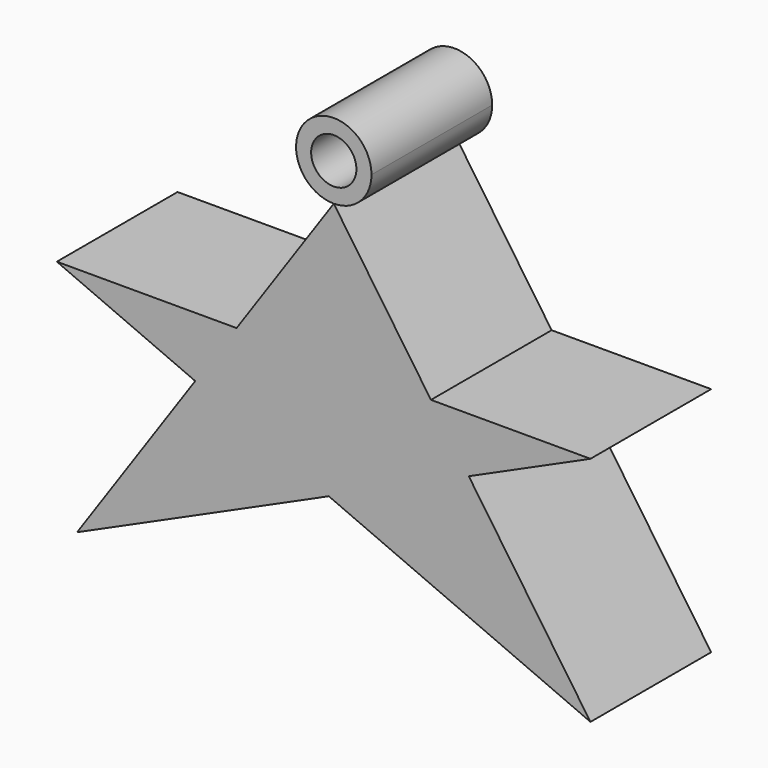
from build123d import *

# Parameters (mm, degrees)
F1_DEPTH = 12.7
F0_R     = 1.905


with BuildPart() as f1:
    # F0 (on Front) → F1 (new body)
    with BuildSketch(Plane.XZ):
        Polygon((8.181161038, -11.8811847642), (-8.181161038, -11.8811847642), (-11.6629169429, -16.9376046315), (-0.4176200962, -21.8190980417), (11.3638446399, -16.5032734561), align=None)
        Polygon((8.181161038, -11.8811847642), (0, 0), (-8.181161038, -11.8811847642), align=None)
        Polygon((21.6077821616, -11.8811847642), (8.181161038, -11.8811847642), (11.3638446399, -16.5032734561), align=None)
        Polygon((21.6077821616, -31.3801489808), (11.3638446399, -16.5032734561), (-0.4176200962, -21.8190980417), align=None)
        Polygon((-0.4176200962, -21.8190980417), (-11.6629169429, -16.9376046315), (-21.6077821616, -31.3801489808), align=None)
        Polygon((-11.6629169429, -16.9376046315), (-8.181161038, -11.8811847642), (-23.3111847192, -11.8811847642), align=None)
    extrude(amount=F1_DEPTH)


with BuildPart() as f1b:
    # F0 (on Front) → F1, piece 2 (new body)
    with BuildSketch(Plane.XZ):
        with BuildLine():
            ThreePointArc((3.175, 3.175), (-2.2450640303, 5.4200640303), (0, 0))
            ThreePointArc((0, 0), (2.2450640303, 0.9299359697), (3.175, 3.175))
        make_face()
        with Locations((0, 3.175)):
            Circle(F0_R, mode=Mode.SUBTRACT)
    extrude(amount=F1_DEPTH)


solid = Compound([f1.part, f1b.part])
